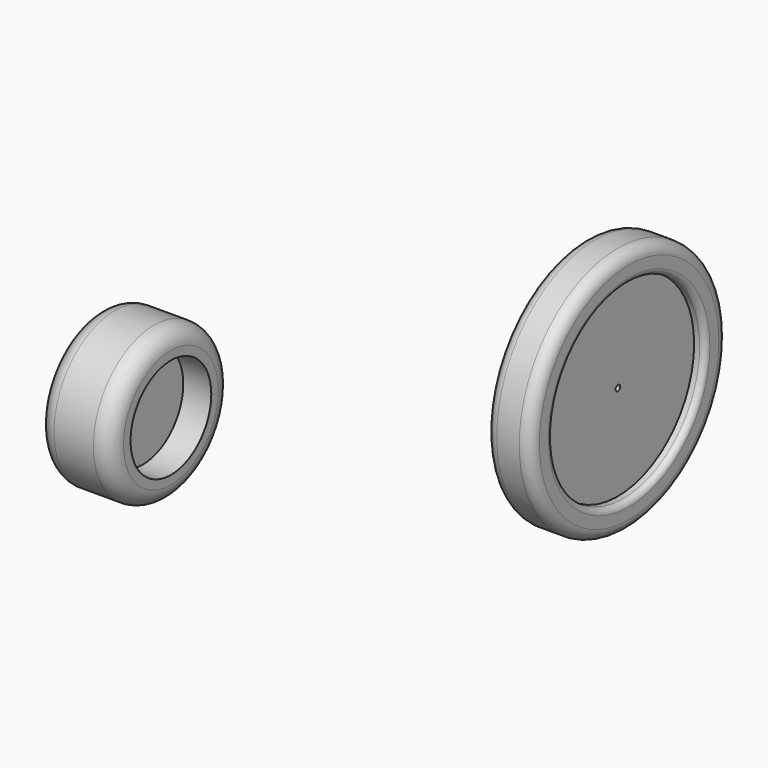
from build123d import *

# Parameters (mm, degrees)
F0_R           = 17.000001
F1_DEPTH       = 2
F1_DEPTH_BACK  = 2
F0_R_2         = 22
F2_DEPTH       = 4
F2_DEPTH_BACK  = 4
F3_R           = 2
F4_R           = 1
F5_R           = 0.501139
F6_DEPTH       = 25
F6_DEPTH_BACK  = 25
F7_R           = 9.000003
F8_DEPTH       = 2
F8_DEPTH_BACK  = 2
F9_R           = 13.558076
F9_R_2         = 9.000003
F10_DEPTH      = 5
F10_DEPTH_BACK = 8
F11_R          = 3


with BuildPart() as f1:
    # F0 (on Right) → F1 (new body, two sides)
    with BuildSketch(Plane.YZ) as f1_sk:
        Circle(F0_R)
    extrude(amount=F1_DEPTH)
    extrude(f1_sk.sketch, amount=-F1_DEPTH_BACK)

    # F0 (on Right) → F2 (join, two sides)
    with BuildSketch(Plane.YZ) as f2_sk:
        Circle(F0_R_2)
        Circle(F0_R, mode=Mode.SUBTRACT)
    extrude(amount=F2_DEPTH)
    extrude(f2_sk.sketch, amount=-F2_DEPTH_BACK)

    # F3
    f3_edges = [f1.edges().sort_by_distance(p)[0] for p in [
        (4, -22, 0),
        (-4, -22, 0),
    ]]
    fillet(f3_edges, radius=F3_R)

    # F4
    f4_edges = [f1.edges().sort_by_distance(p)[0] for p in [
        (4, -17.000001, 0),
        (-4, -17.000001, 0),
    ]]
    fillet(f4_edges, radius=F4_R)

    # F5 (on face) → F6 (cut, two sides)
    with BuildSketch(Plane.YZ.offset(2)) as f6_sk:
        Circle(F5_R)
    extrude(amount=-F6_DEPTH, mode=Mode.SUBTRACT)
    extrude(f6_sk.sketch, amount=-F6_DEPTH_BACK, mode=Mode.SUBTRACT)


with BuildPart() as f8:
    # F7 (on Right) → F8 (new body, two sides)
    with BuildSketch(Plane.YZ) as f8_sk:
        with Locations((-105.889991, 40.028192)):
            Circle(F7_R)
    extrude(amount=F8_DEPTH)
    extrude(f8_sk.sketch, amount=-F8_DEPTH_BACK)

    # F9 (on face) → F10 (join, two sides)
    with BuildSketch(Plane.YZ.offset(2)) as f10_sk:
        with Locations((-105.889991, 40.028192)):
            Circle(F9_R)
        with Locations((-105.889991, 40.028192)):
            Circle(F9_R_2, mode=Mode.SUBTRACT)
    extrude(amount=F10_DEPTH)
    extrude(f10_sk.sketch, amount=-F10_DEPTH_BACK)

    # F11
    f11_edges = [f8.edges().sort_by_distance(p)[0] for p in [
        (7, -119.448067, 40.028192),
        (-6, -119.448067, 40.028192),
    ]]
    fillet(f11_edges, radius=F11_R)


solid = Compound([f1.part, f8.part])
